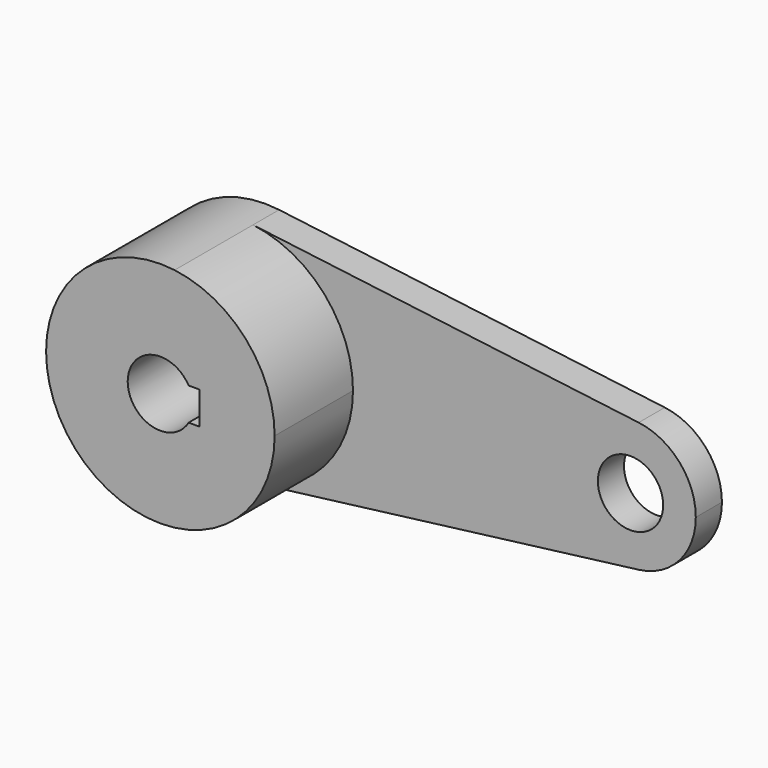
from build123d import *

# Parameters (mm, degrees)
F1_DEPTH = 40
F0_R     = 10
F2_DEPTH = 10


with BuildPart() as f1:
    # F0 (on Front) → F1 (new body)
    with BuildSketch(Plane.XZ):
        with BuildLine():
            ThreePointArc((-85, 0), (-93.75, 23.150324), (-115.625, 34.725486))
            ThreePointArc((-115.625, 34.725486), (-155, 0), (-115.625, -34.725486))
            ThreePointArc((-115.625, -34.725486), (-93.75, -23.150324), (-85, 0))
        make_face()
        with BuildLine():
            ThreePointArc((-111.339746, -5), (-130, 0), (-111.339746, 5))
            Line((-111.339746, 5), (-108, 5))
            Line((-108, 5), (-108, -5))
            Line((-108, -5), (-111.339746, -5))
        make_face(mode=Mode.SUBTRACT)
    extrude(amount=F1_DEPTH)

    # F0 (on Front) → F2 (join)
    with BuildSketch(Plane.XZ):
        with BuildLine():
            ThreePointArc((2.5, -19.843135), (15, -13.228757), (20, 0))
            ThreePointArc((20, 0), (15, 13.228757), (2.5, 19.843135))
            ThreePointArc((2.5, 19.843135), (-20, 0), (2.5, -19.843135))
        make_face()
        Circle(F0_R, mode=Mode.SUBTRACT)
        with BuildLine():
            ThreePointArc((2.5, -19.843135), (-20, 0), (2.5, 19.843135))
            Line((2.5, 19.843135), (-115.625, 34.725486))
            ThreePointArc((-115.625, 34.725486), (-93.75, 23.150324), (-85, 0))
            ThreePointArc((-85, 0), (-93.75, -23.150324), (-115.625, -34.725486))
            Line((-115.625, -34.725486), (2.5, -19.843135))
        make_face()
        with BuildLine():
            ThreePointArc((-85, 0), (-93.75, 23.150324), (-115.625, 34.725486))
            ThreePointArc((-115.625, 34.725486), (-155, 0), (-115.625, -34.725486))
            ThreePointArc((-115.625, -34.725486), (-93.75, -23.150324), (-85, 0))
        make_face()
        with BuildLine():
            ThreePointArc((-111.339746, -5), (-130, 0), (-111.339746, 5))
            Line((-111.339746, 5), (-108, 5))
            Line((-108, 5), (-108, -5))
            Line((-108, -5), (-111.339746, -5))
        make_face(mode=Mode.SUBTRACT)
    extrude(amount=F2_DEPTH)


solid = f1.part
